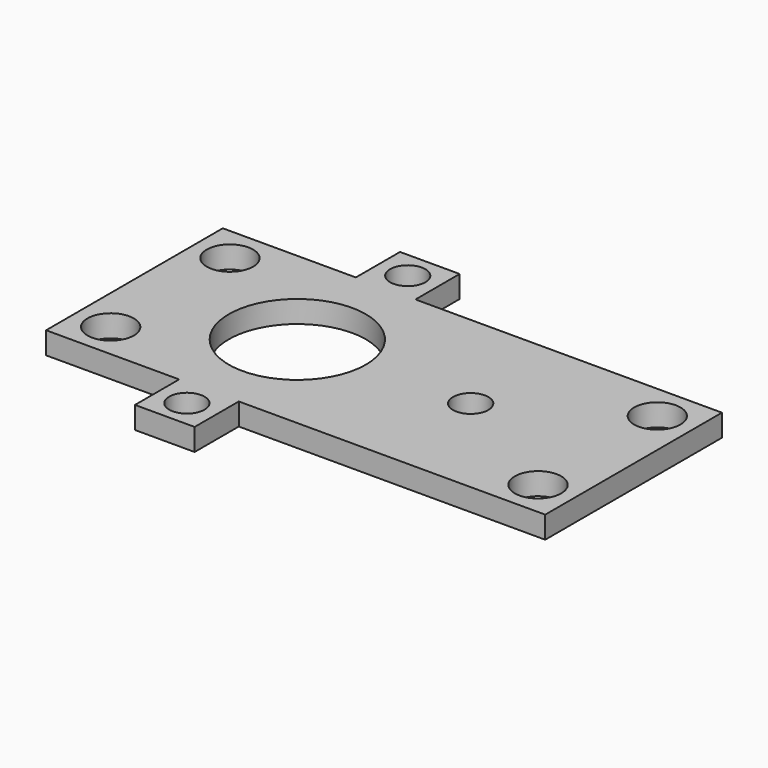
from build123d import *

# Parameters (mm, degrees)
CYLINDER006_R     = 1.6
CYLINDER006_DEPTH = 10
CYLINDER007_R     = 1.6
CYLINDER007_DEPTH = 10
CYLINDER004_R     = 6.2
CYLINDER004_DEPTH = 10
BOX002_W          = 5.4
BOX002_H          = 5
BOX002_DEPTH      = 2
CYLINDER005_R     = 1.6
CYLINDER005_DEPTH = 10
CYLINDER001_R     = 2.1
CYLINDER001_DEPTH = 10
CYLINDER_R        = 2.1
CYLINDER_DEPTH    = 10
CYLINDER002_R     = 2.1
CYLINDER002_DEPTH = 10
CYLINDER003_R     = 2.1
CYLINDER003_DEPTH = 10
BOX_W             = 45.2
BOX_H             = 20
BOX_DEPTH         = 2
BOX001_W          = 5.4
BOX001_H          = 5
BOX001_DEPTH      = 2


with BuildPart() as cylinder006:
    # Cylinder006 → Cylinder006 (new body)
    with BuildSketch(Plane(origin=(14.75, 22.5, -4), x_dir=(1, 0, 0), z_dir=(0, 0, 1))):
        Circle(CYLINDER006_R)
    extrude(amount=CYLINDER006_DEPTH)


with BuildPart() as cylinder007:
    # Cylinder007 → Cylinder007 (new body)
    with BuildSketch(Plane(origin=(14.75, -2.5, -4), x_dir=(1, 0, 0), z_dir=(0, 0, 1))):
        Circle(CYLINDER007_R)
    extrude(amount=CYLINDER007_DEPTH)


with BuildPart() as cylinder004:
    # Cylinder004 → Cylinder004 (new body)
    with BuildSketch(Plane(origin=(14.75, 10, -4), x_dir=(1, 0, 0), z_dir=(0, 0, 1))):
        Circle(CYLINDER004_R)
    extrude(amount=CYLINDER004_DEPTH)


with BuildPart() as cube001:
    # Box002 → Box002 (new body)
    with BuildSketch(Plane(origin=(12.05, 20, 0), x_dir=(1, 0, 0), z_dir=(0, 0, 1))):
        with Locations((2.7, 2.5)):
            Rectangle(BOX002_W, BOX002_H)
    extrude(amount=BOX002_DEPTH)


with BuildPart() as cylinder005:
    # Cylinder005 → Cylinder005 (new body)
    with BuildSketch(Plane(origin=(30.45, 10, -5), x_dir=(1, 0, 0), z_dir=(0, 0, 1))):
        Circle(CYLINDER005_R)
    extrude(amount=CYLINDER005_DEPTH)


with BuildPart() as cylinder001:
    # Cylinder001 → Cylinder001 (new body)
    with BuildSketch(Plane(origin=(41.95, 3.25, -5), x_dir=(1, 0, 0), z_dir=(0, 0, 1))):
        Circle(CYLINDER001_R)
    extrude(amount=CYLINDER001_DEPTH)


with BuildPart() as cylinder:
    # Cylinder → Cylinder (new body)
    with BuildSketch(Plane(origin=(41.95, 16.75, -5), x_dir=(1, 0, 0), z_dir=(0, 0, 1))):
        Circle(CYLINDER_R)
    extrude(amount=CYLINDER_DEPTH)


with BuildPart() as cylinder002:
    # Cylinder002 → Cylinder002 (new body)
    with BuildSketch(Plane(origin=(3.25, 16.75, -5), x_dir=(1, 0, 0), z_dir=(0, 0, 1))):
        Circle(CYLINDER002_R)
    extrude(amount=CYLINDER002_DEPTH)


with BuildPart() as cylinder003:
    # Cylinder003 → Cylinder003 (new body)
    with BuildSketch(Plane(origin=(3.25, 3.25, -5), x_dir=(1, 0, 0), z_dir=(0, 0, 1))):
        Circle(CYLINDER003_R)
    extrude(amount=CYLINDER003_DEPTH)


with BuildPart() as fusion:
    # Box → Box (new body)
    with BuildSketch(Plane.XY):
        with Locations((22.6, 10)):
            Rectangle(BOX_W, BOX_H)
    extrude(amount=BOX_DEPTH)

    # Cut: cut Cylinder003
    add(cylinder003.part, mode=Mode.SUBTRACT)

    # Cut001: cut Cylinder002
    add(cylinder002.part, mode=Mode.SUBTRACT)

    # Cut002: cut Cylinder
    add(cylinder.part, mode=Mode.SUBTRACT)

    # Cut003: cut Cylinder001
    add(cylinder001.part, mode=Mode.SUBTRACT)

    # Cut004: cut Cylinder004
    add(cylinder004.part, mode=Mode.SUBTRACT)

    # Cut005: cut Cylinder005
    add(cylinder005.part, mode=Mode.SUBTRACT)

    # Fusion: union Cube001
    add(cube001.part)


with BuildPart() as cut008:
    # Box001 → Box001 (new body)
    with BuildSketch(Plane(origin=(12.05, -5, 0), x_dir=(1, 0, 0), z_dir=(0, 0, 1))):
        with Locations((2.7, 2.5)):
            Rectangle(BOX001_W, BOX001_H)
    extrude(amount=BOX001_DEPTH)

    # Fusion001: union Fusion
    add(fusion.part)

    # Cut006: cut Cylinder004
    add(cylinder004.part, mode=Mode.SUBTRACT)

    # Cut007: cut Cylinder007
    add(cylinder007.part, mode=Mode.SUBTRACT)

    # Cut008: cut Cylinder006
    add(cylinder006.part, mode=Mode.SUBTRACT)


solid = cut008.part
